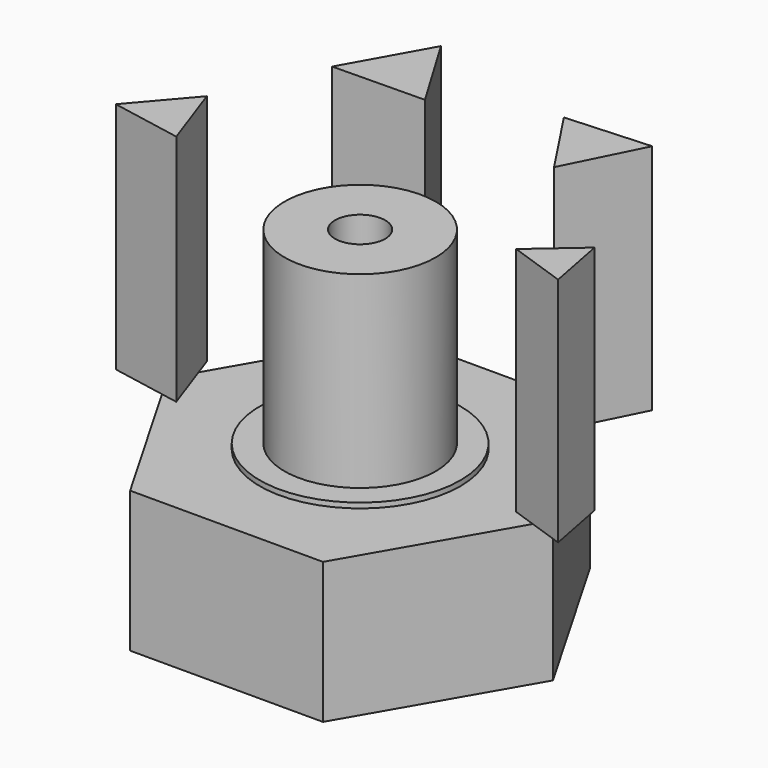
from build123d import *

# Parameters (mm, degrees)
F0_R      = 18.677485
F0_R_2    = 6.197536
F1_DEPTH  = 47.752
F3_DEPTH  = 34.798
F4_R      = 24.770199
F4_R_2    = 12.651261
F5_DEPTH  = 1.27
F7_DEPTH  = 57.658
F9_DEPTH  = 57.404
F11_DEPTH = 57.658
F13_DEPTH = 57.15


with BuildPart() as f1:
    # F0 (on Top) → F1 (new body)
    with BuildSketch(Plane.XY):
        Circle(F0_R)
        Circle(F0_R_2, mode=Mode.SUBTRACT)
    extrude(amount=F1_DEPTH)

    # F2 (on Top) → F3 (join)
    with BuildSketch(Plane.XY):
        Polygon((23.808415, 41.237384), (-23.808415, 41.237384), (-47.61683, 0), (-23.808415, -41.237384), (23.808415, -41.237384), (47.61683, 0), align=None)
    extrude(amount=-F3_DEPTH)

    # F4 (on Top) → F5 (join)
    with BuildSketch(Plane.XY):
        Circle(F4_R)
        Circle(F4_R_2, mode=Mode.SUBTRACT)
    extrude(amount=F5_DEPTH)

    # F6 (on Top) → F7 (join)
    with BuildSketch(Plane.XY):
        Polygon((-12.180529, 35.239672), (-23.794444, 54.69878), (-34.839569, 34.911281), align=None)
    extrude(amount=F7_DEPTH)

    # F8 (on Top) → F9 (join)
    with BuildSketch(Plane.XY):
        Polygon((24.516974, 29.217048), (33.843096, 47.873281), (13.023263, 46.621824), align=None)
    extrude(amount=F9_DEPTH)

    # F10 (on Top) → F11 (join)
    with BuildSketch(Plane.XY):
        Polygon((-40.036782, -6.71368), (-45.977313, 10.143448), (-57.605748, -3.429767), align=None)
    extrude(amount=F11_DEPTH)

    # F12 (on Top) → F13 (join)
    with BuildSketch(Plane.XY):
        Polygon((54.162623, -6.586678), (51.286034, 8.247477), (39.877574, -1.660799), align=None)
    extrude(amount=F13_DEPTH)


solid = f1.part
